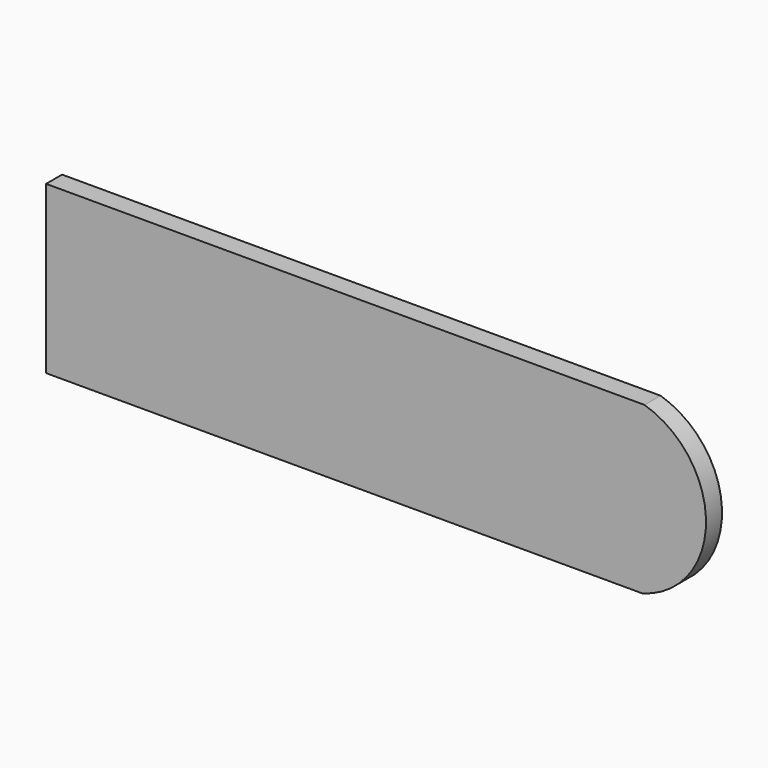
from build123d import *

# Parameters (mm, degrees)
F0_W     = 100
F0_H     = 25
F1_DEPTH = 3
F3_DEPTH = 3.001


with BuildPart() as f1:
    # F0 (on Front) → F1 (new body)
    with BuildSketch(Plane.XZ):
        with Locations((-50, 12.5)):
            Rectangle(F0_W, F0_H)
    extrude(amount=F1_DEPTH)

    # F2 (on face) → F3 (cut, through all)
    with BuildSketch(Plane.XZ.offset(3)):
        with BuildLine():
            ThreePointArc((-10.231524, 25), (-1.002301, 12.380821), (-10.548899, 0))
            Line((-10.548899, 0), (0, 0))
            Line((0, 0), (0, 25))
            Line((0, 25), (-10.231524, 25))
        make_face()
    extrude(amount=-F3_DEPTH, mode=Mode.SUBTRACT)


solid = f1.part
